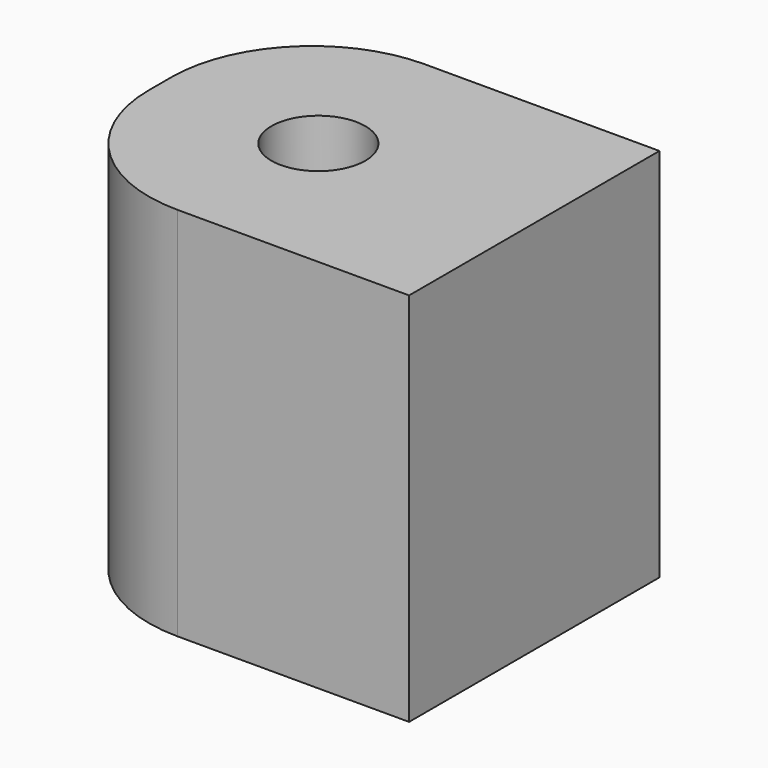
from build123d import *

# Parameters (mm, degrees)
CYLINDER002_R     = 1.5
CYLINDER002_DEPTH = 20
BOX033_W          = 12
BOX033_H          = 10
BOX033_DEPTH      = 12
FILLET011_R       = 4.5
FILLET012_R       = 4.6


with BuildPart() as cylinder:
    # Cylinder002 → Cylinder002 (new body)
    with BuildSketch(Plane(origin=(-103.2, 5, -48.3), x_dir=(1, 0, 0), z_dir=(0, 0, 1))):
        Circle(CYLINDER002_R)
    extrude(amount=CYLINDER002_DEPTH)


with BuildPart() as fillet012:
    # Box033 → Box033 (new body)
    with BuildSketch(Plane(origin=(-108.3, 0, -49.2), x_dir=(1, 0, 0), z_dir=(0, 0, 1))):
        with Locations((6, 5)):
            Rectangle(BOX033_W, BOX033_H)
    extrude(amount=BOX033_DEPTH)

    # Cut017: cut Cylinder
    add(cylinder.part, mode=Mode.SUBTRACT)

    # Fillet011
    fillet011_edges = [fillet012.edges().sort_by_distance(p)[0] for p in [
        (-108.3, 10, -43.2),
    ]]
    fillet(fillet011_edges, radius=FILLET011_R)

    # Fillet012
    fillet012_edges = [fillet012.edges().sort_by_distance(p)[0] for p in [
        (-108.3, 0, -43.2),
    ]]
    fillet(fillet012_edges, radius=FILLET012_R)


with BuildPart() as fillet012_1:
    # Fillet012 placement: moved
    add(fillet012.part.moved(Location((40.69, -41.14, 42.87))))


solid = fillet012_1.part
